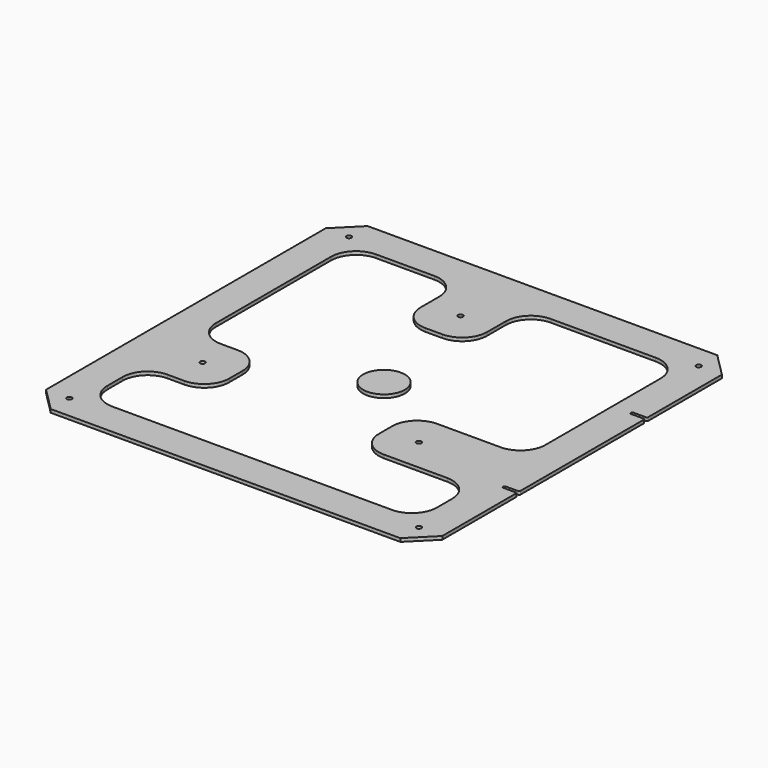
from build123d import *

# Parameters (mm, degrees)
F1_DEPTH = 2
F2_D     = 3
F3_R     = 12.5
F3_W     = 9
F3_H     = 1.8
F4_DEPTH = 25
F5_R     = 0.75


with BuildPart() as f1:
    # F0 (on Top) → F1 (new body)
    with BuildSketch(Plane.XY):
        Polygon((119, 105), (105, 119), (-105, 119), (-119, 105), (-119, -105), (-105, -119), (105, -119), (119, -105), align=None)
    extrude(amount=F1_DEPTH)

    # F2 (through all)
    with Locations(Plane(origin=(0, 0, 0), x_dir=(1, 0, 0), z_dir=(0, 0, -1))):
        with Locations((-105, -105), (105, -105), (-105, 105), (105, 105), (-14, -75), (50.9519052838, 37.5), (-78.9519052838, 37.5)):
            Hole(F2_D / 2)

    # F3 (on face) → F4 (cut)
    with BuildSketch(Plane.XY.offset(2)):
        with BuildLine():
            Line((-99, 84), (-99, -2.5))
            ThreePointArc((-99, -2.5), (-94.6066017178, -13.1066017178), (-84, -17.5))
            Line((-84, -17.5), (-73.9519052838, -17.5))
            ThreePointArc((-73.9519052838, -17.5), (-63.345303566, -21.8933982822), (-58.9519052838, -32.5))
            Line((-58.9519052838, -32.5), (-58.9519052838, -42.5))
            ThreePointArc((-58.9519052838, -42.5), (-63.345303566, -53.1066017178), (-73.9519052838, -57.5))
            Line((-73.9519052838, -57.5), (-84, -57.5))
            ThreePointArc((-84, -57.5), (-94.6066017178, -61.8933982822), (-99, -72.5))
            Line((-99, -72.5), (-99, -84))
            ThreePointArc((-99, -84), (-94.6066017178, -94.6066017178), (-84, -99))
            Line((-84, -99), (84, -99))
            ThreePointArc((84, -99), (94.6066017178, -94.6066017178), (99, -84))
            Line((99, -84), (99, -72.5))
            ThreePointArc((99, -72.5), (94.6066017178, -61.8933982822), (84, -57.5))
            Line((84, -57.5), (45.9519052838, -57.5))
            ThreePointArc((45.9519052838, -57.5), (35.345303566, -53.1066017178), (30.9519052838, -42.5))
            Line((30.9519052838, -42.5), (30.9519052838, -37.5))
            Line((30.9519052838, -37.5), (30.9519052838, -32.5))
            ThreePointArc((30.9519052838, -32.5), (35.345303566, -21.8933982822), (45.9519052838, -17.5))
            Line((45.9519052838, -17.5), (84, -17.5))
            ThreePointArc((84, -17.5), (94.6066017178, -13.1066017178), (99, -2.5))
            Line((99, -2.5), (99, 40.75))
            Line((99, 40.75), (99, 84))
            ThreePointArc((99, 84), (94.6066017178, 94.6066017178), (84, 99))
            Line((84, 99), (21, 99))
            ThreePointArc((21, 99), (10.3933982822, 94.6066017178), (6, 84))
            Line((6, 84), (6, 70))
            ThreePointArc((6, 70), (1.6066017178, 59.3933982822), (-9, 55))
            Line((-9, 55), (-19, 55))
            ThreePointArc((-19, 55), (-29.6066017178, 59.3933982822), (-34, 70))
            Line((-34, 70), (-34, 84))
            ThreePointArc((-34, 84), (-38.3933982822, 94.6066017178), (-49, 99))
            Line((-49, 99), (-84, 99))
            ThreePointArc((-84, 99), (-94.6066017178, 94.6066017178), (-99, 84))
        make_face()
        Circle(F3_R, mode=Mode.SUBTRACT)
        with Locations((114.5, 48)):
            Rectangle(F3_W, F3_H)
        with Locations((114.5, -48)):
            Rectangle(F3_W, F3_H)
    extrude(amount=-F4_DEPTH, mode=Mode.SUBTRACT)

    # F5
    f5_edges = [f1.edges().sort_by_distance(p)[0] for p in [
        (119, -48.9, 1),
        (119, -47.1, 1),
        (119, 48.9, 1),
        (119, 47.1, 1),
        (110, 48.9, 1),
        (110, 47.1, 1),
        (110, -48.9, 1),
        (110, -47.1, 1),
    ]]
    fillet(f5_edges, radius=F5_R)


solid = f1.part
